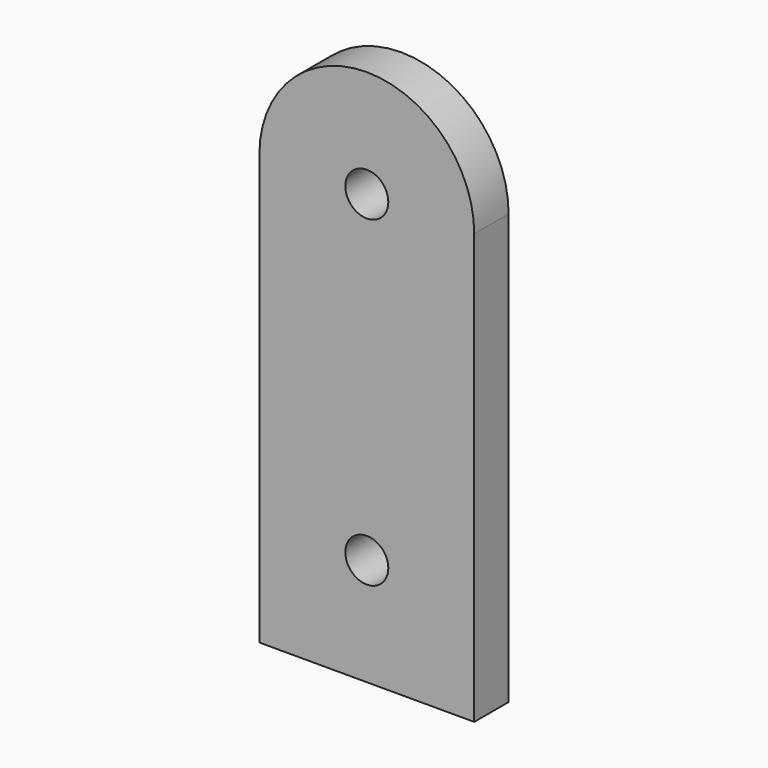
from build123d import *

# Parameters (mm, degrees)
F0_R     = 1
F1_DEPTH = 2


with BuildPart() as f1:
    # F0 (on Front) → F1 (new body)
    with BuildSketch(Plane.XZ):
        with BuildLine():
            Line((0, 20), (0, 0))
            Line((0, 0), (10, 0))
            Line((10, 0), (10, 20))
            ThreePointArc((10, 20), (5, 25), (0, 20))
        make_face()
        with Locations((5, 5)):
            Circle(F0_R, mode=Mode.SUBTRACT)
        with Locations((5, 20)):
            Circle(F0_R, mode=Mode.SUBTRACT)
    extrude(amount=F1_DEPTH)


solid = f1.part
